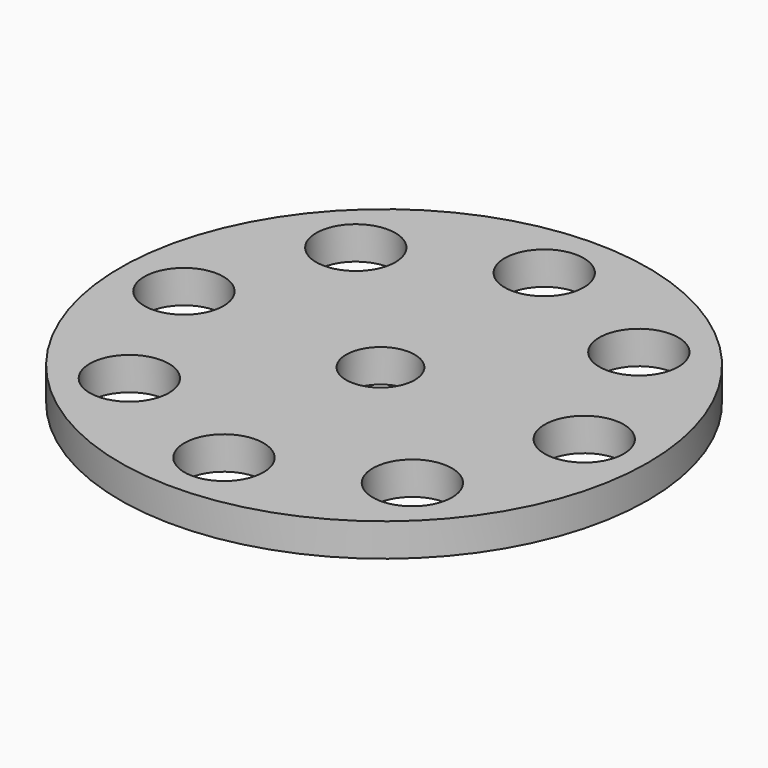
from build123d import *

# Parameters (mm, degrees)
F0_R     = 25.4
F0_R_2   = 3.302
F1_DEPTH = 3.175
F2_R     = 3.81
F3_DEPTH = 25.4


with BuildPart() as f1:
    # F0 (on Top) → F1 (new body)
    with BuildSketch(Plane.XY):
        Circle(F0_R)
        with Locations((0, -0.435431)):
            Circle(F0_R_2, mode=Mode.SUBTRACT)
    extrude(amount=F1_DEPTH)

    # F2 (on face) → F3 (cut)
    with BuildSketch(Plane.XY.offset(3.175)):
        with Locations((0, 19.260339)):
            Circle(F2_R)
        with Locations((-13.619117, 13.619117)):
            Circle(F2_R)
        with Locations((-19.260339, 0)):
            Circle(F2_R)
        with Locations((-13.619117, -13.619117)):
            Circle(F2_R)
        with Locations((0, -19.260339)):
            Circle(F2_R)
        with Locations((13.619117, -13.619117)):
            Circle(F2_R)
        with Locations((19.260339, 0)):
            Circle(F2_R)
        with Locations((13.619117, 13.619117)):
            Circle(F2_R)
    extrude(amount=-F3_DEPTH, mode=Mode.SUBTRACT)


solid = f1.part
